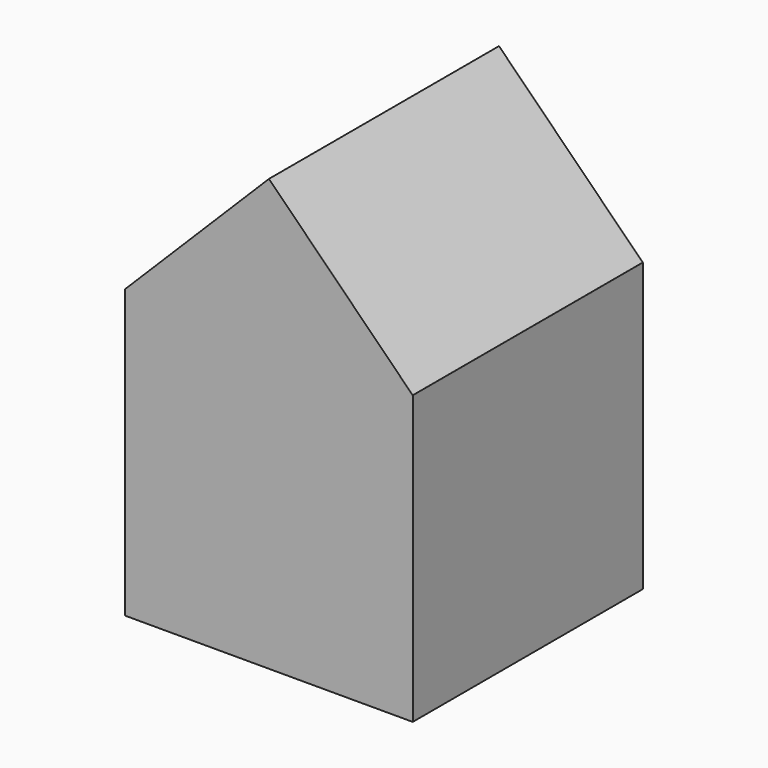
from build123d import *

# Parameters (mm, degrees)
BOX001_W            = 10
BOX001_H            = 10
BOX001_DEPTH        = 10
BOX_W               = 7.07
BOX_H               = 10
BOX_DEPTH           = 7.07
BOX_PLACEMENT_ANGLE = 45


with BuildPart() as cubo_base:
    # Box001 → Box001 (new body)
    with BuildSketch(Plane(origin=(-4, -5, 0), x_dir=(1, 0, 0), z_dir=(0, 0, 1))):
        with Locations((5, 5)):
            Rectangle(BOX001_W, BOX001_H)
    extrude(amount=BOX001_DEPTH)


with BuildPart() as fusion:
    # Box → Box (new body)
    with BuildSketch(Plane.XY):
        with Locations((3.535, 5)):
            Rectangle(BOX_W, BOX_H)
    extrude(amount=BOX_DEPTH)


with BuildPart() as fusion_1:
    # Box placement: moved
    add(fusion.part.moved(Location((-4, -5, 10))).rotate(Axis((-4, -5, 10), (0, 1, 0)), BOX_PLACEMENT_ANGLE))

    # Fusion: union cubo_base
    add(cubo_base.part)


solid = fusion_1.part
